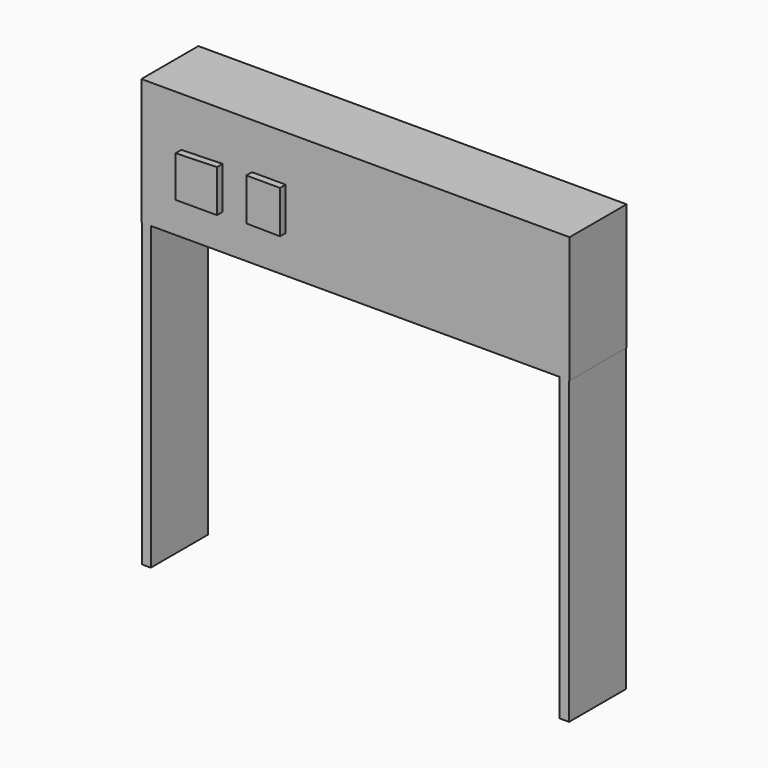
from build123d import *

# Parameters (mm, degrees)
F0_W     = 0.1549944282
F0_H     = 44.9563041329
F0_W_2   = 3.2087042928
F0_W_3   = 145.5950886011
F0_H_2   = 107.2087809443
F0_W_4   = 3.4092515707
F0_W_5   = 0.1821219921
F0_H_3   = 107.1085110307
F1_DEPTH = 25.4
F3_DEPTH = 2.54


with BuildPart() as f1:
    # F0 (on Front) → F1 (new body)
    with BuildSketch(Plane.XZ):
        with Locations((-76.1510320008, 53.7468977273)):
            Rectangle(F0_W, F0_H)
        with Locations((-74.4691826403, 53.7468977273)):
            Rectangle(F0_W_2, F0_H)
        with Locations((-0.0672861934, 53.7468977273)):
            Rectangle(F0_W_3, F0_H)
        with Locations((-74.4691826403, -22.3356448114)):
            Rectangle(F0_W_2, F0_H_2)
        with Locations((74.4348838925, 53.7468977273)):
            Rectangle(F0_W_4, F0_H)
        with Locations((76.2305706739, 53.7468977273)):
            Rectangle(F0_W_5, F0_H)
        with Locations((74.4348838925, -22.2855098546)):
            Rectangle(F0_W_4, F0_H_3)
    extrude(amount=F1_DEPTH)

    # F2 (on face) → F3 (join)
    with BuildSketch(Plane.XZ.offset(25.4)):
        Polygon((-36.8280895054, 59.82850492), (-36.8280895054, 44.7937846184), (-24.8050373048, 44.6476303041), (-24.8050373048, 59.82850492), align=None)
        Polygon((-47.2566857934, 59.0478740633), (-62.004558742, 58.6273260415), (-62.004558742, 43.9759418368), (-47.2566857934, 43.9759418368), align=None)
    extrude(amount=F3_DEPTH)


solid = f1.part
